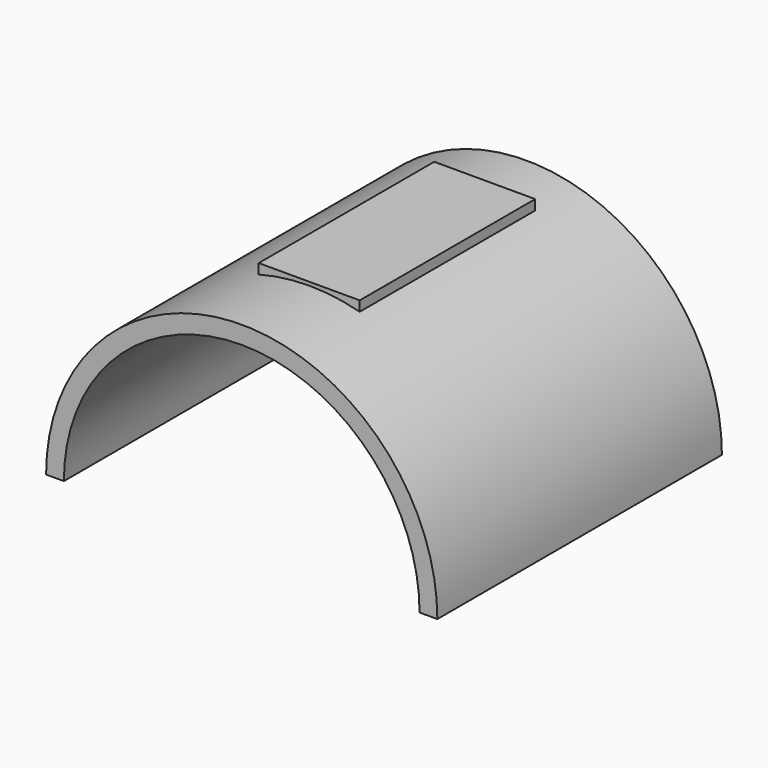
from build123d import *

# Parameters (mm, degrees)
F1_DEPTH = 30
F4_W     = 8.514822
F4_H     = 18.499203
F5_DEPTH = 1
F6_W     = 8.514822
F6_H     = 18.499203
F7_DEPTH = 1.8


with BuildPart() as f1:
    # F0 (on Front) → F1 (new body)
    with BuildSketch(Plane.XZ):
        with BuildLine():
            ThreePointArc((-15, 0), (0, 15), (15, 0))
            Line((15, 0), (16.5, 0))
            ThreePointArc((16.5, 0), (0, 16.5), (-16.5, 0))
            Line((-16.5, 0), (-15, 0))
        make_face()
    extrude(amount=F1_DEPTH)



with BuildPart() as f5:
    # F4 (on face) → F5 (new body)
    with BuildSketch(Plane.XY.offset(15.791785)):
        with Locations((0, -13.633903)):
            Rectangle(F4_W, F4_H)
    extrude(amount=F5_DEPTH)


with BuildPart() as f1_1:
    add(f1.part)

    add(f5.part)  # F7 merges F5
    # F6 (on face) → F7 (join)
    with BuildSketch(Plane.XY.offset(16.791785)):
        with Locations((0, -13.633903)):
            Rectangle(F6_W, F6_H)
    extrude(amount=-F7_DEPTH)


solid = f1_1.part
